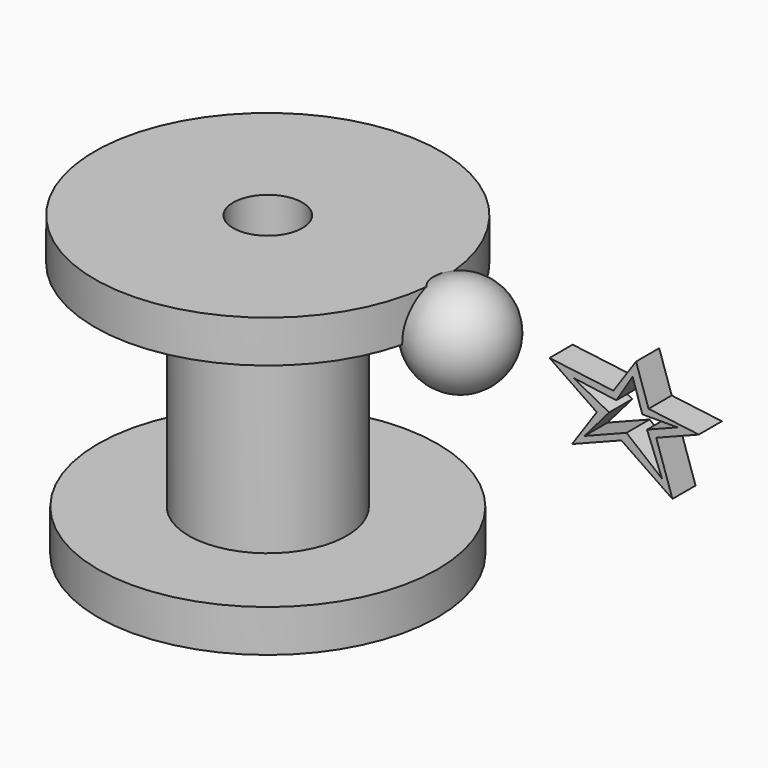
from build123d import *

# Parameters (mm, degrees)
F1_DEPTH = 12.7
F3_DEPTH = 12.7
F7_R     = 4.509022636
F7_R_2   = 4.5620664558
F8_DEPTH = 21.3633707424


with BuildPart() as f1:
    # F0 (on Front) → F1 (new body)
    with BuildSketch(Plane.XZ):
        with BuildLine():
            ThreePointArc((-2.1613044124, -25.6567504797), (-16.6774717944, -35.0860232947), (-32.0200319102, -27.0712774861))
            Line((-32.0200319102, -27.0712774861), (-19.2664712583, -67.2382065642))
            Line((-19.2664712583, -67.2382065642), (-2.1613044124, -25.6567504797))
        make_face()
        with BuildLine():
            ThreePointArc((-0.3319411973, -17.9478079081), (-22.236420681, -1.4601398637), (-32.0200319102, -27.0712774861))
            ThreePointArc((-32.0200319102, -27.0712774861), (-16.6774717944, -35.0860232947), (-2.1613044124, -25.6567504797))
            ThreePointArc((-2.1613044124, -25.6567504797), (-0.7955454336, -21.9093216763), (-0.3319411973, -17.9478079081))
        make_face()
    extrude(amount=F1_DEPTH)


with BuildPart() as f1b:
    # F0 (on Front) → F1, piece 2 (new body)
    with BuildSketch(Plane.XZ):
        Polygon((29.2077476815, 38.9916177673), (18.3463264257, 23.1254231185), (40.0090130563, 31.5974633447), align=None)
        Polygon((8.4349348226, 53.2119318453), (29.2077476815, 38.9916177673), (36.5079763337, 49.6556778428), align=None)
        Polygon((36.5079763337, 49.6556778428), (29.2077476815, 38.9916177673), (40.0090130563, 31.5974633447), (55.3329556132, 37.5904899707), (51.9638696468, 47.6977466925), align=None)
        Polygon((55.3329556132, 37.5904899707), (40.0090130563, 31.5974633447), (62.4518059194, 16.2339415401), align=None)
        Polygon((46.4635677636, 64.1986504197), (36.5079763337, 49.6556778428), (51.9638696468, 47.6977466925), align=None)
        Polygon((51.9638696468, 47.6977466925), (55.3329556132, 37.5904899707), (74.0294978023, 44.9025034904), align=None)
    extrude(amount=F1_DEPTH)

    # F2 (on face) → F3 (cut, through all)
    with BuildSketch(Plane.XZ.offset(12.7)):
        Polygon((44.9611246586, 57.8568913043), (37.7901494503, 46.3833324611), (18.8213412521, 48.9648841321), (34.6349179745, 40.6465530396), (23.7770370536, 28.0256401747), (42.2768685517, 35.260722291), (57.8688755631, 22.5757006556), (51.2806714182, 39.4214896319), (64.6812267077, 44.6623004973), (49.2137187052, 44.6623004973), align=None)
    extrude(amount=-F3_DEPTH, mode=Mode.SUBTRACT)


with BuildPart() as f6:
    # F5 (on Front) → F6 (revolve)
    with BuildSketch(Plane.XZ):
        with BuildLine():
            Line((-40.9333109856, 41.7860895395), (-40.9333109856, 63.148460282))
            ThreePointArc((-40.9333109856, 63.148460282), (-62.295681728, 41.7860895395), (-40.9333109856, 20.4237187971))
            Line((-40.9333109856, 20.4237187971), (-40.9333109856, 41.7860895395))
        make_face()
    revolve(axis=Axis((-40.9333109856, 0, 31.1049041683), (0, 0, -1)))

    # F7 (on Front) → F8 (cut, through all)
    with BuildSketch(Plane.XZ):
        with Locations((-48.8064177334, 49.1743125021)):
            Circle(F7_R)
        with Locations((-32.3741063476, 49.1743125021)):
            Circle(F7_R_2)
        Polygon((-27.959452942, 35.6850996614), (-53.9568439126, 36.4208742976), (-48.8064177334, 30.5346753448), (-43.1654751301, 27.5915730745), (-37.0340161026, 27.5915730745), (-31.8835861981, 30.7799298316), align=None)
    extrude(amount=-F8_DEPTH, mode=Mode.SUBTRACT)

    # F9 (on Front) → F10 (revolve)
    with BuildSketch(Plane.XZ):
        Polygon((-160.2333933115, -53.0149079859), (-200.1728862524, -53.0149079859), (-200.1728862524, -71.5582370758), (-140.7391279936, -71.5582370758), (-140.7391279936, 59.6714876592), (-201.5992850065, 59.6714876592), (-201.5992850065, 41.1281585693), (-160.2333933115, 41.1281585693), align=None)
    revolve(axis=Axis((-125.5240887403, 0, -4.0414966643), (0, 0, 1)))


solid = Compound([f1b.part, f6.part])
